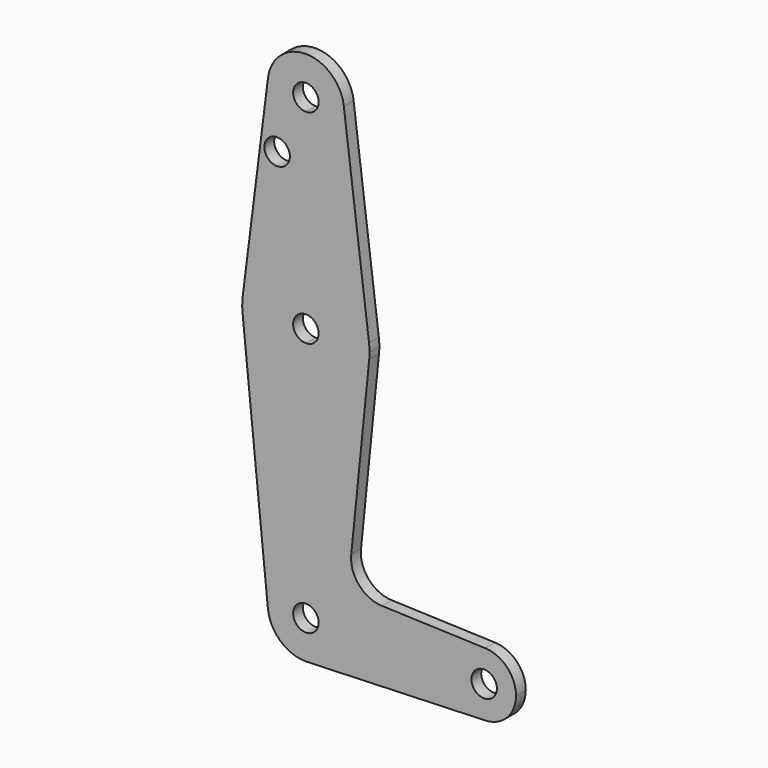
from build123d import *

# Parameters (mm, degrees)
F0_R     = 3.175
F1_DEPTH = 3.048


with BuildPart() as f1:
    # F0 (on Front) → F1 (new body)
    with BuildSketch(Plane.XZ):
        with BuildLine():
            ThreePointArc((9.4502929642, 115.490625), (0, 123.825), (-9.4502929642, 115.490625))
            ThreePointArc((-9.4502929642, 115.490625), (-7.14375, 107.9998046905), (0, 104.775))
            ThreePointArc((0, 104.775), (6.7351920908, 107.5648079092), (9.525, 114.3))
            ThreePointArc((9.525, 114.3), (9.5063048942, 114.896483242), (9.4502929642, 115.490625))
        make_face()
        with BuildLine():
            ThreePointArc((3.175, 114.3), (2.2450640303, 112.0549359697), (0, 111.125))
            ThreePointArc((0, 111.125), (-2.2450640303, 116.5450640303), (3.175, 114.3))
        make_face(mode=Mode.SUBTRACT)
        with BuildLine():
            Line((0, 104.775), (0, 79.375))
            ThreePointArc((0, 79.375), (10.5003256569, 75.4062498756), (15.7504883207, 65.4843746267))
            Line((15.7504883207, 65.4843746267), (9.4502929642, 115.490625))
            ThreePointArc((9.4502929642, 115.490625), (9.5063048942, 114.896483242), (9.525, 114.3))
            ThreePointArc((9.525, 114.3), (6.7351920908, 107.5648079092), (0, 104.775))
        make_face()
        with BuildLine():
            Line((-9.4502929642, 115.490625), (-15.7504882737, 65.484375))
            ThreePointArc((-15.7504882737, 65.484375), (-10.5003255158, 75.40625), (0, 79.375))
            Line((0, 79.375), (0, 104.775))
            ThreePointArc((0, 104.775), (-7.14375, 107.9998046905), (-9.4502929642, 115.490625))
        make_face()
        with Locations((-7.1728848852, 100.0252)):
            Circle(F0_R, mode=Mode.SUBTRACT)
        with BuildLine():
            ThreePointArc((-15.7954255641, 61.9125), (-10.6492737428, 51.7267849017), (0, 47.625))
            Line((0, 47.625), (0, 60.325))
            ThreePointArc((0, 60.325), (-3.175, 63.5), (0, 66.675))
            Line((0, 66.675), (0, 79.375))
            ThreePointArc((0, 79.375), (-10.5003255158, 75.40625), (-15.7504882737, 65.484375))
            ThreePointArc((-15.7504882737, 65.484375), (-15.8737438155, 63.6997054867), (-15.7954255641, 61.9125))
        make_face()
        with BuildLine():
            Line((0, 60.325), (0, 47.625))
            ThreePointArc((0, 47.625), (10.6447561055, 51.7227001204), (15.7942028094, 61.9003804782))
            ThreePointArc((15.7942028094, 61.9003804782), (15.8547878352, 62.6991706173), (15.875, 63.5))
            ThreePointArc((15.875, 63.5), (15.8438415022, 64.4941385489), (15.7504883207, 65.4843746267))
            ThreePointArc((15.7504883207, 65.4843746267), (10.5003256569, 75.4062498756), (0, 79.375))
            Line((0, 79.375), (0, 66.675))
            ThreePointArc((0, 66.675), (2.2450640303, 65.7450640303), (3.175, 63.5))
            ThreePointArc((3.175, 63.5), (2.2450640303, 61.2549359697), (0, 60.325))
        make_face()
        with BuildLine():
            Line((0, 47.625), (0, 9.525))
            ThreePointArc((0, 9.525), (6.7351920908, 6.7351920908), (9.525, 0))
            Line((9.525, 0), (36.5125, 0))
            ThreePointArc((36.5125, 0), (38.9380895153, 5.7116327839), (44.7324052746, 7.9324746146))
            Line((44.7324052746, 7.9324746146), (18.9341027877, 8.850924033))
            ThreePointArc((18.9341027877, 8.850924033), (13.2249738114, 11.5709798305), (11.3072231466, 17.5971800924))
            Line((11.3072231466, 17.5971800924), (15.7942028094, 61.9003804782))
            ThreePointArc((15.7942028094, 61.9003804782), (10.6447561055, 51.7227001204), (0, 47.625))
        make_face()
        with BuildLine():
            ThreePointArc((-9.4772553384, -0.9525), (-7.063929059, 6.3895642457), (0, 9.525))
            Line((0, 9.525), (0, 47.625))
            ThreePointArc((0, 47.625), (-10.6492737428, 51.7267849017), (-15.7954255641, 61.9125))
            Line((-15.7954255641, 61.9125), (-9.4772553384, -0.9525))
        make_face()
        with BuildLine():
            ThreePointArc((3.175, 0), (-2.2450640303, -2.2450640303), (0, 3.175))
            Line((0, 3.175), (0, 9.525))
            ThreePointArc((0, 9.525), (-7.063929059, 6.3895642457), (-9.4772553384, -0.9525))
            ThreePointArc((-9.4772553384, -0.9525), (-6.3895642457, -7.063929059), (0, -9.525))
            Line((0, -9.525), (0.6773435479, -9.500885786))
            ThreePointArc((0.6773435479, -9.500885786), (6.9705567315, -6.4912990883), (9.525, 0))
            Line((9.525, 0), (3.175, 0))
        make_face()
        with BuildLine():
            Line((0, 9.525), (0, 3.175))
            ThreePointArc((0, 3.175), (2.2450640303, 2.2450640303), (3.175, 0))
            Line((3.175, 0), (9.525, 0))
            ThreePointArc((9.525, 0), (6.7351920908, 6.7351920908), (0, 9.525))
        make_face()
        with BuildLine():
            Line((36.5125, 0), (9.525, 0))
            ThreePointArc((9.525, 0), (6.9705567315, -6.4912990883), (0.6773435479, -9.500885786))
            Line((0.6773435479, -9.500885786), (44.7324052746, -7.9324746146))
            ThreePointArc((44.7324052746, -7.9324746146), (38.9380895153, -5.7116327839), (36.5125, 0))
        make_face()
        with BuildLine():
            ThreePointArc((44.7324052746, 7.9324746146), (38.9380895153, 5.7116327839), (36.5125, 0))
            ThreePointArc((36.5125, 0), (38.9380895153, -5.7116327839), (44.7324052746, -7.9324746146))
            ThreePointArc((44.7324052746, -7.9324746146), (50.1616327839, -5.5119104847), (52.3875, 0))
            ThreePointArc((52.3875, 0), (50.1616327839, 5.5119104847), (44.7324052746, 7.9324746146))
        make_face()
        with BuildLine():
            ThreePointArc((47.625, 0), (44.45, -3.175), (41.275, 0))
            ThreePointArc((41.275, 0), (44.45, 3.175), (47.625, 0))
        make_face(mode=Mode.SUBTRACT)
    extrude(amount=F1_DEPTH)


solid = f1.part
